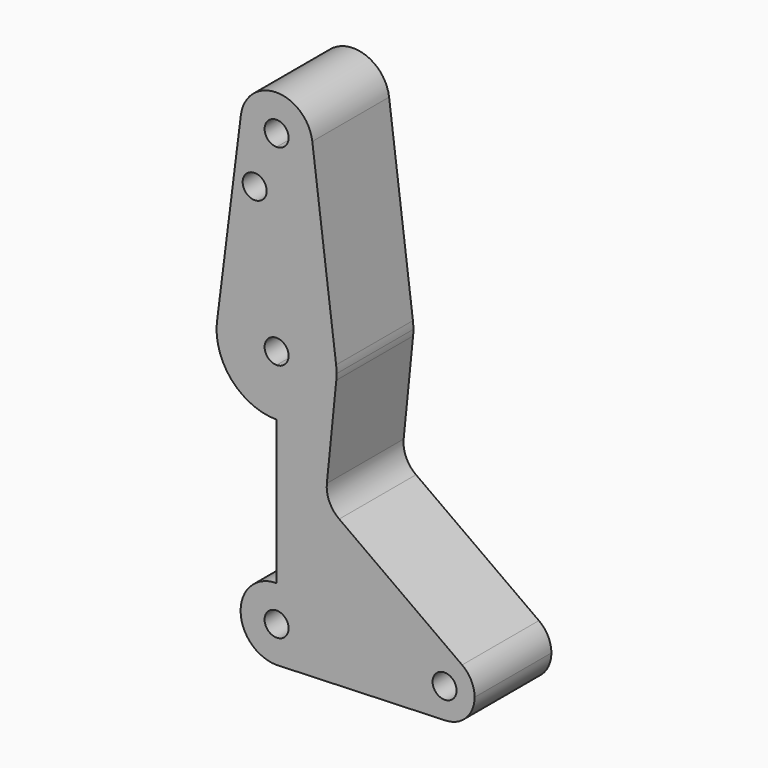
from build123d import *

# Parameters (mm, degrees)
F0_R     = 3.175
F1_DEPTH = 25.4


with BuildPart() as f1:
    # F0 (on Front) → F1 (new body)
    with BuildSketch(Plane.XZ):
        with BuildLine():
            ThreePointArc((3.175, 0), (-2.2450640303, -2.2450640303), (0, 3.175))
            Line((0, 3.175), (0, 9.525))
            ThreePointArc((0, 9.525), (-9.525, 0), (0, -9.525))
            Line((0, -9.525), (0.6773435479, -9.500885786))
            ThreePointArc((0.6773435479, -9.500885786), (6.9705567315, -6.4912990883), (9.525, 0))
            Line((9.525, 0), (3.175, 0))
        make_face()
        with BuildLine():
            Line((0, 9.525), (0, 3.175))
            ThreePointArc((0, 3.175), (2.2450640303, 2.2450640303), (3.175, 0))
            Line((3.175, 0), (9.525, 0))
            ThreePointArc((9.525, 0), (6.7351920908, 6.7351920908), (0, 9.525))
        make_face()
        with BuildLine():
            Line((0, 47.625), (0, 9.525))
            ThreePointArc((0, 9.525), (6.7351920908, 6.7351920908), (9.525, 0))
            Line((9.525, 0), (36.5125, 0))
            ThreePointArc((36.5125, 0), (40.830361875, 7.0641436915), (49.0862640553, 6.442744901))
            Line((49.0862640553, 6.442744901), (16.5675029115, 29.8435726117))
            ThreePointArc((16.5675029115, 29.8435726117), (13.9631116964, 33.0299588598), (13.3008358668, 37.0916459046))
            Line((13.3008358668, 37.0916459046), (15.7954255641, 61.9125))
            ThreePointArc((15.7954255641, 61.9125), (10.6492737428, 51.7267849017), (0, 47.625))
        make_face()
        with BuildLine():
            Line((36.5125, 0), (9.525, 0))
            ThreePointArc((9.525, 0), (6.9705567315, -6.4912990883), (0.6773435479, -9.500885786))
            Line((0.6773435479, -9.500885786), (27.1872243516, -8.5571033561))
            Line((27.1872243516, -8.5571033561), (44.7324052746, -7.9324746146))
            ThreePointArc((44.7324052746, -7.9324746146), (38.9380895153, -5.7116327839), (36.5125, 0))
        make_face()
        with BuildLine():
            ThreePointArc((-15.7954255641, 61.9125), (-10.6492737428, 51.7267849017), (0, 47.625))
            Line((0, 47.625), (0, 60.325))
            ThreePointArc((0, 60.325), (-3.175, 63.5), (0, 66.675))
            Line((0, 66.675), (0, 79.375))
            ThreePointArc((0, 79.375), (-10.5003255158, 75.40625), (-15.7504882737, 65.484375))
            ThreePointArc((-15.7504882737, 65.484375), (-15.8737438155, 63.6997054867), (-15.7954255641, 61.9125))
        make_face()
        with BuildLine():
            Line((0, 60.325), (0, 47.625))
            ThreePointArc((0, 47.625), (10.6492737428, 51.7267849017), (15.7954255641, 61.9125))
            ThreePointArc((15.7954255641, 61.9125), (15.8550939106, 62.7052534459), (15.875, 63.5))
            ThreePointArc((15.875, 63.5), (15.8438414904, 64.4941387366), (15.7504882737, 65.484375))
            ThreePointArc((15.7504882737, 65.484375), (10.5003255158, 75.40625), (0, 79.375))
            Line((0, 79.375), (0, 66.675))
            ThreePointArc((0, 66.675), (2.2450640303, 65.7450640303), (3.175, 63.5))
            ThreePointArc((3.175, 63.5), (2.2450640303, 61.2549359697), (0, 60.325))
        make_face()
        with BuildLine():
            Line((0.6773435479, -9.500885786), (0, -9.525))
            ThreePointArc((0, -9.525), (0.3388863295, -9.5189695375), (0.6773435479, -9.500885786))
        make_face()
        with BuildLine():
            ThreePointArc((49.0862640553, 6.442744901), (40.830361875, 7.0641436915), (36.5125, 0))
            ThreePointArc((36.5125, 0), (38.9380895153, -5.7116327839), (44.7324052746, -7.9324746146))
            ThreePointArc((44.7324052746, -7.9324746146), (50.1616327839, -5.5119104847), (52.3875, 0))
            ThreePointArc((52.3875, 0), (51.5141436915, 3.619638125), (49.0862640553, 6.442744901))
        make_face()
        with BuildLine():
            ThreePointArc((47.625, 0), (44.45, -3.175), (41.275, 0))
            ThreePointArc((41.275, 0), (44.45, 3.175), (47.625, 0))
        make_face(mode=Mode.SUBTRACT)
        with BuildLine():
            Line((-9.4502929642, 115.490625), (-15.7504882737, 65.484375))
            ThreePointArc((-15.7504882737, 65.484375), (-10.5003255158, 75.40625), (0, 79.375))
            Line((0, 79.375), (0, 104.775))
            ThreePointArc((0, 104.775), (-7.14375, 107.9998046905), (-9.4502929642, 115.490625))
        make_face()
        with Locations((-5.8028255589, 100.0252)):
            Circle(F0_R, mode=Mode.SUBTRACT)
        with BuildLine():
            Line((0, 104.775), (0, 79.375))
            ThreePointArc((0, 79.375), (10.5003255158, 75.40625), (15.7504882737, 65.484375))
            Line((15.7504882737, 65.484375), (9.4502929642, 115.490625))
            ThreePointArc((9.4502929642, 115.490625), (9.5063048942, 114.896483242), (9.525, 114.3))
            ThreePointArc((9.525, 114.3), (6.7351920908, 107.5648079092), (0, 104.775))
        make_face()
        with BuildLine():
            ThreePointArc((9.4502929642, 115.490625), (0, 123.825), (-9.4502929642, 115.490625))
            ThreePointArc((-9.4502929642, 115.490625), (-7.14375, 107.9998046905), (0, 104.775))
            ThreePointArc((0, 104.775), (6.7351920908, 107.5648079092), (9.525, 114.3))
            ThreePointArc((9.525, 114.3), (9.5063048942, 114.896483242), (9.4502929642, 115.490625))
        make_face()
        with BuildLine():
            ThreePointArc((3.175, 114.3), (2.2450640303, 112.0549359697), (0, 111.125))
            ThreePointArc((0, 111.125), (-2.2450640303, 116.5450640303), (3.175, 114.3))
        make_face(mode=Mode.SUBTRACT)
    extrude(amount=F1_DEPTH)


solid = f1.part
